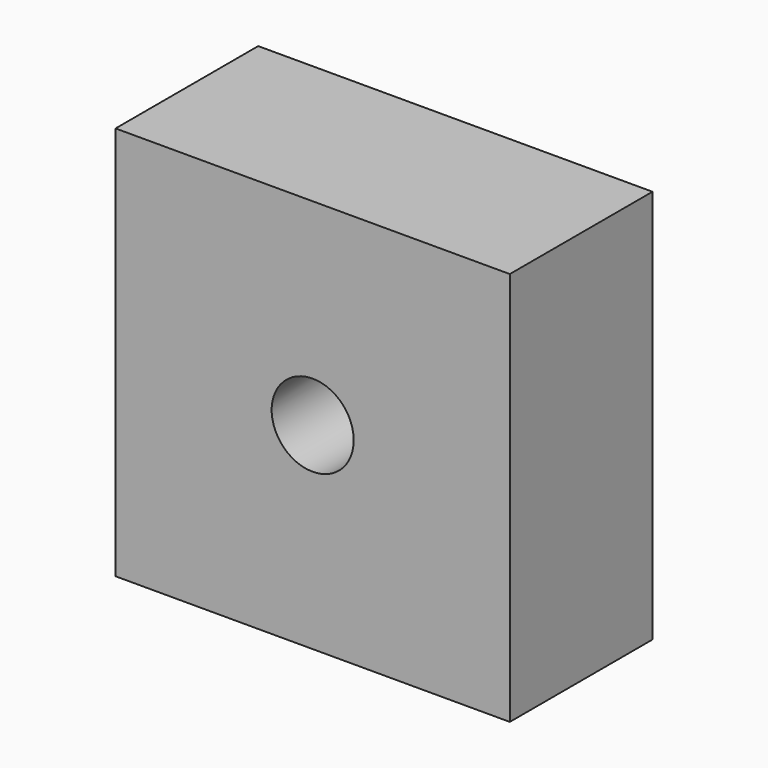
from build123d import *

# Parameters (mm, degrees)
F0_W     = 110.554024
F0_H     = 110.554024
F1_DEPTH = 25
F2_R     = 11.5
F3_DEPTH = 25
F4_R     = 4.674091
F5_DEPTH = 25


with BuildPart() as f1:
    # F0 (on Front) → F1 (new body, symmetric)
    with BuildSketch(Plane.XZ):
        Rectangle(F0_W, F0_H)
    extrude(amount=F1_DEPTH, both=True)

    # F2 (on Front) → F3 (cut, through all)
    with BuildSketch(Plane.XZ):
        Circle(F2_R)
    extrude(amount=F3_DEPTH, mode=Mode.SUBTRACT)

    # F4 (on face) → F5 (cut, through all)
    with BuildSketch(Plane.XZ):
        Circle(F4_R)
    extrude(amount=-F5_DEPTH, mode=Mode.SUBTRACT)


solid = f1.part
